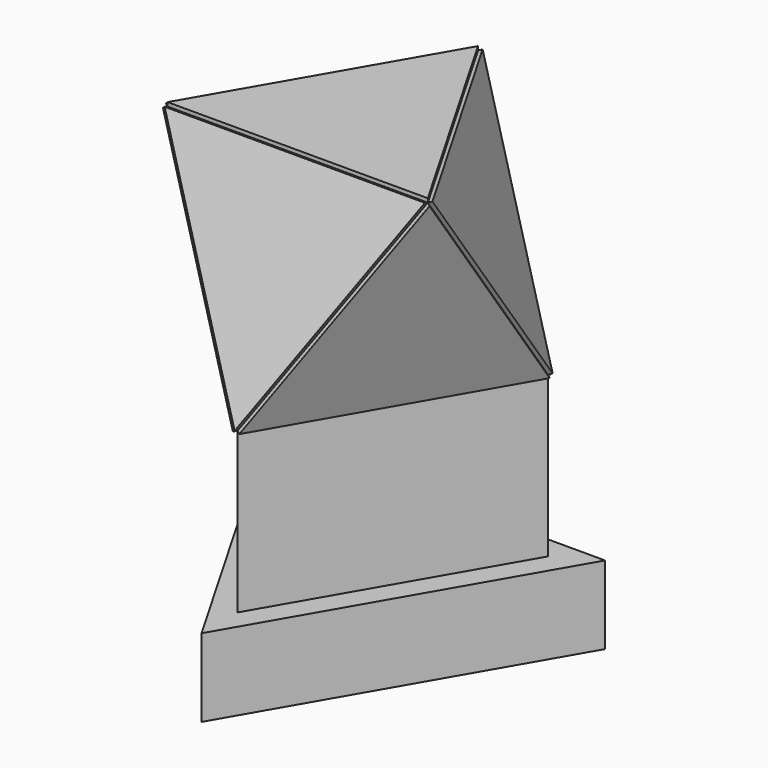
from build123d import *

# Parameters (mm, degrees)
F1_DEPTH  = 3
F4_ANGLE  = 109.47
F7_ANGLE  = -109.47
F9_COUNT  = 3
F11_ANGLE = 109.47
F12_COUNT = 3
F15_ANGLE = -109.47
F16_DEPTH = 60
F18_DEPTH = 30


with BuildPart() as f1:
    # F0 (on Top) → F1 (new body)
    with BuildSketch(Plane.XY):
        Polygon((50, 28.8675134595), (-50, 28.8675134595), (0, -57.735026919), align=None)
    extrude(amount=F1_DEPTH)


with BuildPart() as f3_1:
    # F3: copy of F1
    add(f1.part)


with BuildPart() as f3_1_1:
    # F4: moved
    add(f3_1.part.rotate(Axis((-25, -14.4337567297, 1.5), (0.5, -0.8660254038, 0)), F4_ANGLE))


with BuildPart() as f5_1:
    # F5: copy of F1
    add(f1.part)


with BuildPart() as f5_1_1:
    # F7: moved
    add(f5_1.part.rotate(Axis((0, 28.8675134595, 1.5), (1, 0, 0)), F7_ANGLE))


with BuildPart() as f9_1:
    # F9: instance of F3_1
    add(f3_1_1.part.rotate(Axis((0, 0, 37.9892624915), (0, 0, 1)), 1 * 360 / F9_COUNT))


with BuildPart() as f9_2:
    # F9: instance of F3_1
    add(f3_1_1.part.rotate(Axis((0, 0, 37.9892624915), (0, 0, 1)), 2 * 360 / F9_COUNT))


with BuildPart() as f5_1_2:
    # F11: moved
    add(f5_1_1.part.rotate(Axis((25, 43.3004004501, 42.3251365352), (-0.5, 0.2886577398, 0.8165027307)), F11_ANGLE))


with BuildPart() as f12_1:
    # F12: instance of F5_1
    add(f5_1_2.part.rotate(Axis((0, 0, 37.9892624915), (0, 0, 1)), 1 * 360 / F12_COUNT))


with BuildPart() as f12_2:
    # F12: instance of F5_1
    add(f5_1_2.part.rotate(Axis((0, 0, 37.9892624915), (0, 0, 1)), 2 * 360 / F12_COUNT))


with BuildPart() as f14_1:
    # F14: copy of F5_1
    add(f5_1_2.part)


with BuildPart() as f14_1_1:
    # F15: moved
    add(f14_1.part.rotate(Axis((24.9992467838, 14.4315824081, 83.1490430642), (0.4999849357, -0.8660341007, -2.46001e-05)), F15_ANGLE))


with BuildPart() as f1_1:
    add(f1.part)

    # F16 (add): a face of the model
    f16_faces = [f1_1.faces().sort_by_distance(p)[0] for p in [
        (0, 0, 0),
    ]]
    extrude(f16_faces, amount=F16_DEPTH)

    # F17 (on face) → F18 (join)
    with BuildSketch(Plane(origin=(0, 0, -60), x_dir=(1, 0, 0), z_dir=(0, 0, -1))):
        Polygon((65, -37.5277674973), (0, 75.0555349947), (-65, -37.5277674973), align=None)
    extrude(amount=F18_DEPTH)


solid = Compound([f3_1_1.part, f9_1.part, f9_2.part, f5_1_2.part, f12_1.part, f12_2.part, f14_1_1.part, f1_1.part])
